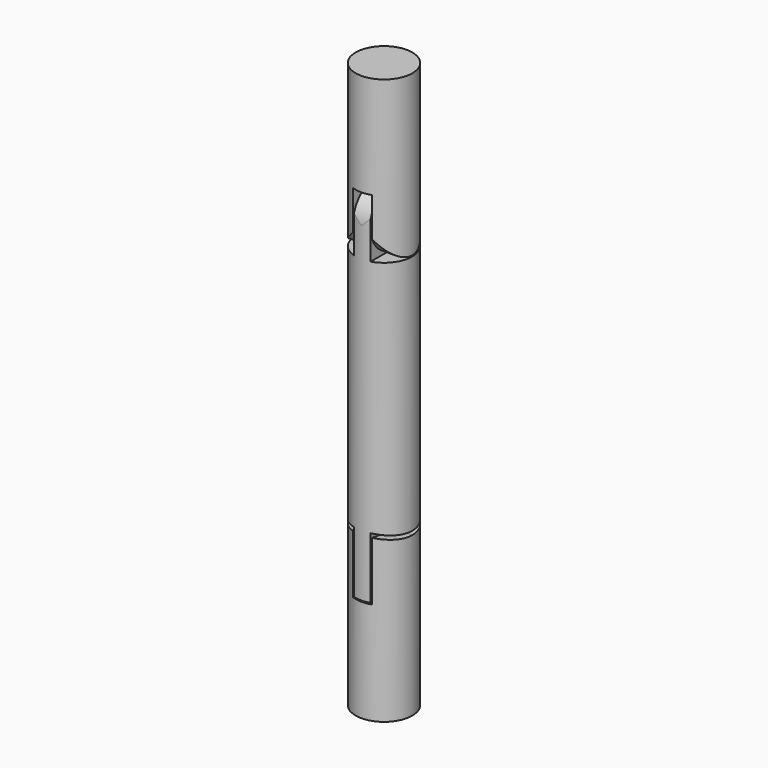
from build123d import *

# Parameters (mm, degrees)
F0_R           = 7.5
F1_DEPTH       = 75
F3_DEPTH       = 12.5
F8_DEPTH       = 4.8
F9_DEPTH       = 25
F10_DEPTH      = 4.6
F11_DEPTH      = 25
F12_DEPTH      = 4.7
F13_DEPTH      = 3
F13_DEPTH_BACK = 6
F14_DEPTH      = 12.5
F16_DEPTH      = 4.6
F20_DEPTH      = 7.8
F23_DEPTH      = 13.8
F24_DEPTH      = 1


with BuildPart() as f1:
    # F0 (on Top) → F1 (new body, symmetric)
    with BuildSketch(Plane.XY):
        Circle(F0_R)
    extrude(amount=F1_DEPTH, both=True)

    # F2 (on Front) → F3 (cut, symmetric)
    with BuildSketch(Plane.XZ):
        Polygon((2.2, 32.5), (2.2, 32.2), (2.5, 32.2), (2.5, 40), (2.5, 47.8), (0, 47.8), (-2.5, 47.8), (-2.5, 42.1871210635), (-2.5, 32.2), (-2.2, 32.2), (-2.2, 32.5), (-2.2, 40), (-2.2, 47.5), (0, 47.5), (2.2, 47.5), (2.2, 40), align=None)
    extrude(amount=F3_DEPTH, both=True, mode=Mode.SUBTRACT)

    # F7 (on offset) → F8 (cut)
    with BuildSketch(Plane(origin=(-2.35, 0, 0), x_dir=(0, -1, 0), z_dir=(-1, 0, 0))):
        with BuildLine():
            Line((-2, 40), (0, 40))
            Line((0, 40), (2, 40))
            ThreePointArc((2, 40), (0, 42), (-2, 40))
        make_face()
        with BuildLine():
            Line((0, 40), (0, 38))
            ThreePointArc((0, 38), (1.4142135624, 38.5857864376), (2, 40))
            Line((2, 40), (0, 40))
        make_face()
        with BuildLine():
            Line((0, 38), (0, 37.7))
            ThreePointArc((0, 37.7), (1.6263455967, 38.3736544033), (2.3, 40))
            Line((2.3, 40), (2, 40))
            ThreePointArc((2, 40), (1.4142135624, 38.5857864376), (0, 38))
        make_face()
        with BuildLine():
            ThreePointArc((-2, 40), (-1.4142135624, 38.5857864376), (0, 38))
            Line((0, 38), (0, 40))
            Line((0, 40), (-2, 40))
        make_face()
        with BuildLine():
            ThreePointArc((-2.3, 40), (-1.6263455967, 38.3736544033), (0, 37.7))
            Line((0, 37.7), (0, 38))
            ThreePointArc((0, 38), (-1.4142135624, 38.5857864376), (-2, 40))
            Line((-2, 40), (-2.3, 40))
        make_face()
        with BuildLine():
            ThreePointArc((2.3, 40), (0, 42.3), (-2.3, 40))
            Line((-2.3, 40), (-2, 40))
            ThreePointArc((-2, 40), (0, 42), (2, 40))
            Line((2, 40), (2.3, 40))
        make_face()
    extrude(amount=-F8_DEPTH, mode=Mode.SUBTRACT)

    # F5 (on offset) → F9 (cut)
    with BuildSketch(Plane.YZ.offset(2.35)):
        with BuildLine():
            Line((-7.8, 32.2), (0, 32.2))
            ThreePointArc((0, 32.2), (-5.5154328933, 34.4845671067), (-7.8, 40))
            Line((-7.8, 40), (-7.8, 32.2))
        make_face()
        with BuildLine():
            ThreePointArc((-7.8, 40), (-5.5154328933, 34.4845671067), (0, 32.2))
            Line((0, 32.2), (0, 32.5))
            ThreePointArc((0, 32.5), (-5.3033008589, 34.6966991411), (-7.5, 40))
            Line((-7.5, 40), (-7.8, 40))
        make_face()
        with BuildLine():
            Line((0, 32.5), (0, 32.2))
            ThreePointArc((0, 32.2), (5.5154328933, 34.4845671067), (7.8, 40))
            Line((7.8, 40), (7.5, 40))
            ThreePointArc((7.5, 40), (5.3033008589, 34.6966991411), (0, 32.5))
        make_face()
        with BuildLine():
            ThreePointArc((7.8, 40), (5.5154328933, 34.4845671067), (0, 32.2))
            Line((0, 32.2), (7.8, 32.2))
            Line((7.8, 32.2), (7.8, 40))
        make_face()
    extrude(amount=F9_DEPTH, mode=Mode.SUBTRACT)

    # F5 (on offset) → F10 (cut)
    with BuildSketch(Plane.YZ.offset(2.35)):
        with BuildLine():
            ThreePointArc((0, 47.8), (5.5154328933, 45.5154328933), (7.8, 40))
            Line((7.8, 40), (7.8, 47.8))
            Line((7.8, 47.8), (0, 47.8))
        make_face()
        with BuildLine():
            ThreePointArc((0, 47.8), (-5.5154328933, 45.5154328933), (-7.8, 40))
            Line((-7.8, 40), (-7.5, 40))
            ThreePointArc((-7.5, 40), (0, 47.5), (7.5, 40))
            Line((7.5, 40), (7.8, 40))
            ThreePointArc((7.8, 40), (5.5154328933, 45.5154328933), (0, 47.8))
        make_face()
        with BuildLine():
            Line((-7.8, 47.8), (-7.8, 40))
            ThreePointArc((-7.8, 40), (-5.5154328933, 45.5154328933), (0, 47.8))
            Line((0, 47.8), (-7.8, 47.8))
        make_face()
    extrude(amount=-F10_DEPTH, mode=Mode.SUBTRACT)

    # F7 (on offset) → F11 (cut)
    with BuildSketch(Plane(origin=(-2.35, 0, 0), x_dir=(0, -1, 0), z_dir=(-1, 0, 0))):
        with BuildLine():
            ThreePointArc((7.8, 40), (5.5154328933, 34.4845671067), (0, 32.2))
            Line((0, 32.2), (7.8, 32.2))
            Line((7.8, 32.2), (7.8, 40))
        make_face()
        with BuildLine():
            Line((0, 32.5), (0, 32.2))
            ThreePointArc((0, 32.2), (5.5154328933, 34.4845671067), (7.8, 40))
            Line((7.8, 40), (7.5, 40))
            ThreePointArc((7.5, 40), (5.3033008589, 34.6966991411), (0, 32.5))
        make_face()
        with BuildLine():
            ThreePointArc((-7.8, 40), (-5.5154328933, 34.4845671067), (0, 32.2))
            Line((0, 32.2), (0, 32.5))
            ThreePointArc((0, 32.5), (-5.3033008589, 34.6966991411), (-7.5, 40))
            Line((-7.5, 40), (-7.8, 40))
        make_face()
        with BuildLine():
            Line((-7.8, 32.2), (0, 32.2))
            ThreePointArc((0, 32.2), (-5.5154328933, 34.4845671067), (-7.8, 40))
            Line((-7.8, 40), (-7.8, 32.2))
        make_face()
    extrude(amount=F11_DEPTH, mode=Mode.SUBTRACT)

    # F7 (on offset) → F12 (cut)
    with BuildSketch(Plane(origin=(-2.35, 0, 0), x_dir=(0, -1, 0), z_dir=(-1, 0, 0))):
        with BuildLine():
            Line((-2, 40), (0, 40))
            Line((0, 40), (2, 40))
            ThreePointArc((2, 40), (0, 42), (-2, 40))
        make_face()
        with BuildLine():
            ThreePointArc((-2, 40), (-1.4142135624, 38.5857864376), (0, 38))
            Line((0, 38), (0, 40))
            Line((0, 40), (-2, 40))
        make_face()
        with BuildLine():
            Line((0, 38), (0, 37.7))
            ThreePointArc((0, 37.7), (1.6263455967, 38.3736544033), (2.3, 40))
            Line((2.3, 40), (2, 40))
            ThreePointArc((2, 40), (1.4142135624, 38.5857864376), (0, 38))
        make_face()
        with BuildLine():
            Line((0, 40), (0, 38))
            ThreePointArc((0, 38), (1.4142135624, 38.5857864376), (2, 40))
            Line((2, 40), (0, 40))
        make_face()
        with BuildLine():
            ThreePointArc((2.3, 40), (0, 42.3), (-2.3, 40))
            Line((-2.3, 40), (-2, 40))
            ThreePointArc((-2, 40), (0, 42), (2, 40))
            Line((2, 40), (2.3, 40))
        make_face()
        with BuildLine():
            ThreePointArc((-2.3, 40), (-1.6263455967, 38.3736544033), (0, 37.7))
            Line((0, 37.7), (0, 38))
            ThreePointArc((0, 38), (-1.4142135624, 38.5857864376), (-2, 40))
            Line((-2, 40), (-2.3, 40))
        make_face()
    extrude(amount=-F12_DEPTH, mode=Mode.SUBTRACT)

    # F7 (on offset) → F13 (join, two sides)
    with BuildSketch(Plane(origin=(-2.35, 0, 0), x_dir=(0, -1, 0), z_dir=(-1, 0, 0))) as f13_sk:
        with BuildLine():
            Line((-2, 40), (0, 40))
            Line((0, 40), (2, 40))
            ThreePointArc((2, 40), (0, 42), (-2, 40))
        make_face()
        with BuildLine():
            ThreePointArc((-2, 40), (-1.4142135624, 38.5857864376), (0, 38))
            Line((0, 38), (0, 40))
            Line((0, 40), (-2, 40))
        make_face()
        with BuildLine():
            Line((0, 40), (0, 38))
            ThreePointArc((0, 38), (1.4142135624, 38.5857864376), (2, 40))
            Line((2, 40), (0, 40))
        make_face()
    extrude(amount=F13_DEPTH)
    extrude(f13_sk.sketch, amount=-F13_DEPTH_BACK)

    # F2 (on Front) → F14 (cut, symmetric)
    with BuildSketch(Plane.XZ):
        Polygon((2.5, -32.2), (2.2, -32.2), (2.2, -32.5), (2.2, -40), (2.2, -47.5), (0, -47.5), (-2.2, -47.5), (-2.2, -40), (-2.2, -32.5), (-2.2, -32.2), (-2.5, -32.2), (-2.5, -42.1871210635), (-2.5, -47.8), (0, -47.8), (2.5, -47.8), (2.5, -40), align=None)
    extrude(amount=F14_DEPTH, both=True, mode=Mode.SUBTRACT)

    # F15 (on face) → F16 (cut)
    with BuildSketch(Plane.YZ.offset(2.2)):
        with BuildLine():
            ThreePointArc((0.1100212297, -37.6026915367), (-0.7758600895, -37.7380006815), (-1.5386621402, -38.2083487525))
            Line((-1.5386621402, -38.2083487525), (-1.3676996802, -38.3907544467))
            ThreePointArc((-1.3676996802, -38.3907544467), (0, -37.85), (1.3676996802, -38.3907544467))
            Line((1.3676996802, -38.3907544467), (2.0643335182, -37.6474919855))
            ThreePointArc((2.0643335182, -37.6474919855), (1.0868861776, -37.6377945056), (0.1100212297, -37.6026915367))
        make_face()
        with BuildLine():
            Line((-1.3676996802, -38.3907544467), (-1.5386621402, -38.2083487525))
            ThreePointArc((-1.5386621402, -38.2083487525), (-2.25, -39.85), (-1.5386621402, -41.4916512475))
            Line((-1.5386621402, -41.4916512475), (-1.3676996802, -41.3092455533))
            ThreePointArc((-1.3676996802, -41.3092455533), (-2, -39.85), (-1.3676996802, -38.3907544467))
        make_face()
        with BuildLine():
            Line((-1.3676996802, -41.3092455533), (-1.5386621402, -41.4916512475))
            ThreePointArc((-1.5386621402, -41.4916512475), (-0.8782052034, -41.9215346052), (-0.1100212297, -42.0973084633))
            ThreePointArc((-0.1100212297, -42.0973084633), (1.0211843118, -42.1374539432), (2.1530602611, -42.1471736102))
            Line((2.1530602611, -42.1471736102), (1.3676996802, -41.3092455533))
            ThreePointArc((1.3676996802, -41.3092455533), (0, -41.85), (-1.3676996802, -41.3092455533))
        make_face()
        with BuildLine():
            Line((2.0643335182, -37.6474919855), (1.3676996802, -38.3907544467))
            ThreePointArc((1.3676996802, -38.3907544467), (1.8351293361, -39.0548268617), (2, -39.85))
            ThreePointArc((2, -39.85), (1.9998581405, -39.8738205311), (1.9994325823, -39.8976376831))
            ThreePointArc((1.9994325823, -39.8976376831), (1.8255284476, -40.6669736146), (1.3676996802, -41.3092455533))
            Line((1.3676996802, -41.3092455533), (2.1530602611, -42.1471736102))
            ThreePointArc((2.1530602611, -42.1471736102), (8.3064049344, -41.6648335588), (14.3230944724, -40.2879713302))
            ThreePointArc((14.3230944724, -40.2879713302), (15.8123595839, -37.4760165959), (13.0004048496, -35.9867514844))
            ThreePointArc((13.0004048496, -35.9867514844), (7.5937742961, -37.2214779165), (2.0643335182, -37.6474919855))
        make_face()
    extrude(amount=-F16_DEPTH, mode=Mode.SUBTRACT)

    # F19 (on offset) → F20 (cut)
    with BuildSketch(Plane.YZ.offset(10)):
        with BuildLine():
            ThreePointArc((10.2028084727, -30.516141973), (-0.1003538011, -31.8442659218), (-10.3966962167, -30.4642663105))
            Line((-10.3966962167, -30.4642663105), (-10.3966962167, -31.4992174021))
            ThreePointArc((-10.3966962167, -31.4992174021), (-5.2416788265, -32.5067027946), (0, -32.8443922819))
            ThreePointArc((0, -32.8443922819), (5.142310672, -32.5194356619), (10.2028084727, -31.5497357802))
            Line((10.2028084727, -31.5497357802), (10.2028084727, -30.516141973))
        make_face()
    extrude(amount=-F20_DEPTH, mode=Mode.SUBTRACT)

    # F22 (on offset) → F23 (cut)
    with BuildSketch(Plane.YZ.offset(-16)):
        with BuildLine():
            ThreePointArc((10.2028084727, -30.516141973), (-0.1003538011, -31.8442659218), (-10.3966962167, -30.4642663105))
            Line((-10.3966962167, -30.4642663105), (-10.3966962167, -31.4992174021))
            ThreePointArc((-10.3966962167, -31.4992174021), (-5.2416788265, -32.5067027946), (0, -32.8443922819))
            ThreePointArc((0, -32.8443922819), (5.142310672, -32.5194356619), (10.2028084727, -31.5497357802))
            Line((10.2028084727, -31.5497357802), (10.2028084727, -30.516141973))
        make_face()
    extrude(amount=F23_DEPTH, mode=Mode.SUBTRACT)

    # F24 (add, symmetric): faces of the model
    f24_faces = [f1.faces().sort_by_distance(p)[0] for p in [
        (2.2, 0, -39.85),
        (-2.2, 0, -39.85),
    ]]
    extrude(f24_faces, amount=F24_DEPTH, both=True, dir=(1, 0, 0))


solid = f1.part
